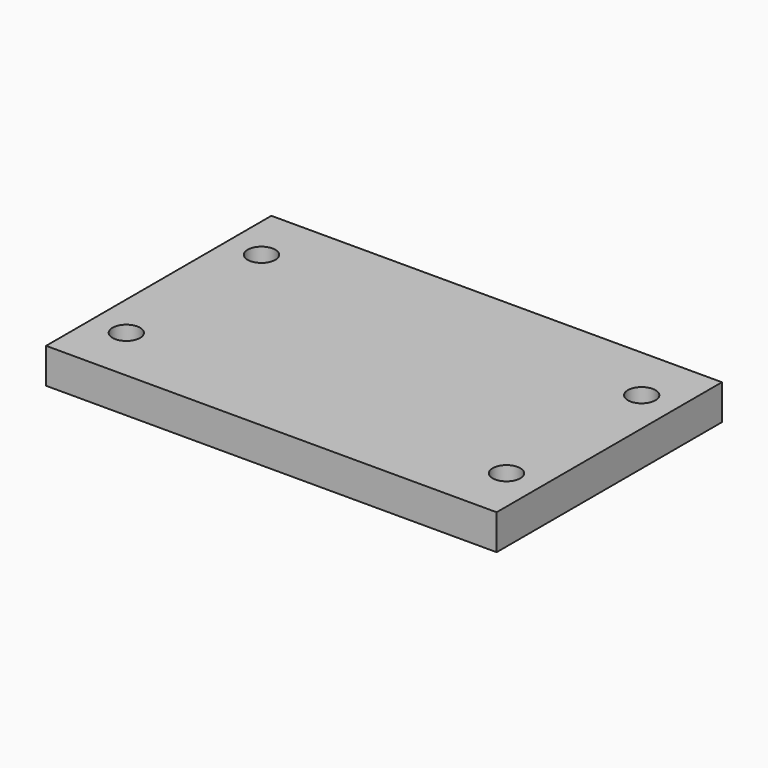
from build123d import *

# Parameters (mm, degrees)
F0_W     = 81.28
F0_H     = 50.8
F1_DEPTH = 6.35
F2_D     = 4.9784


with BuildPart() as f1:
    # F0 (on Top) → F1 (new body)
    with BuildSketch(Plane.XY):
        with Locations((-106.3625, 0)):
            Rectangle(F0_W, F0_H)
    extrude(amount=-F1_DEPTH)

    # F2 (through all)
    with Locations(Plane.XY):
        with Locations((-140.6525, 15.24), (-140.6525, -15.24), (-72.0725, 15.24), (-72.0725, -15.24)):
            Hole(F2_D / 2)


solid = f1.part
